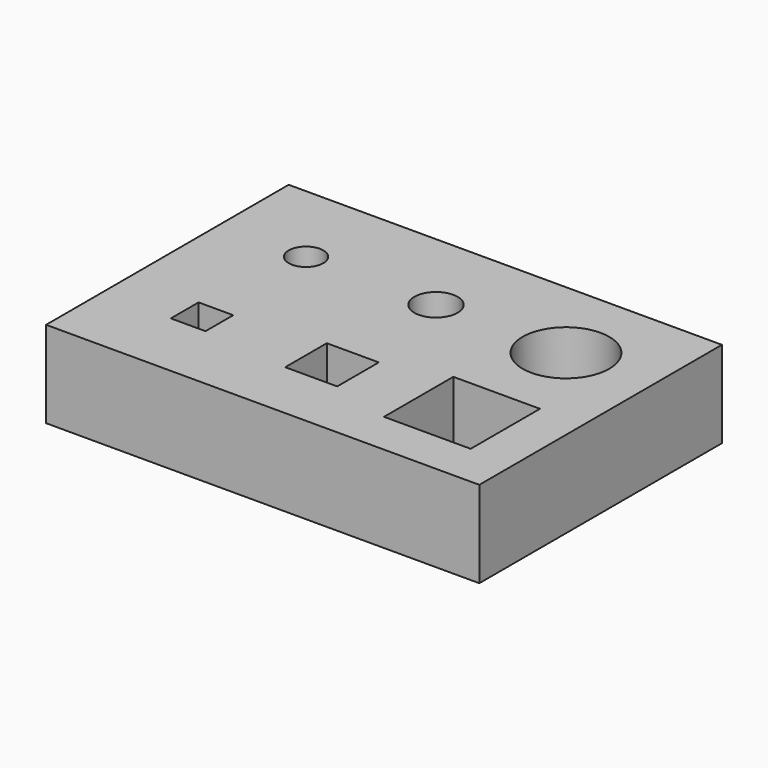
from build123d import *

# Parameters (mm, degrees)
SKETCH_W      = 50
SKETCH_H      = 35
PAD_DEPTH     = 10
SKETCH001_R   = 2
SKETCH001_R_2 = 2.5
SKETCH001_R_3 = 5
SKETCH001_W   = 4
SKETCH001_H   = 4
SKETCH001_W_2 = 6
SKETCH001_H_2 = 6
SKETCH001_W_3 = 10
SKETCH001_H_3 = 10
POCKET_DEPTH  = 10.001


with BuildPart() as part:
    # Sketch → Pad (new body)
    with BuildSketch(Plane.XY):
        Rectangle(SKETCH_W, SKETCH_H)
    extrude(amount=PAD_DEPTH)

    # Sketch001 (on Face6 of Pad) → Pocket (cut, through all)
    with BuildSketch(Plane.XY.offset(10)):
        with Locations((-15, 7.5)):
            Circle(SKETCH001_R)
        with Locations((0, 7.5)):
            Circle(SKETCH001_R_2)
        with Locations((15, 7.5)):
            Circle(SKETCH001_R_3)
        with Locations((-15, -7.5)):
            Rectangle(SKETCH001_W, SKETCH001_H)
        with Locations((0, -7.5)):
            Rectangle(SKETCH001_W_2, SKETCH001_H_2)
        with Locations((15, -7.5)):
            Rectangle(SKETCH001_W_3, SKETCH001_H_3)
    extrude(amount=-POCKET_DEPTH, mode=Mode.SUBTRACT)


solid = part.part
